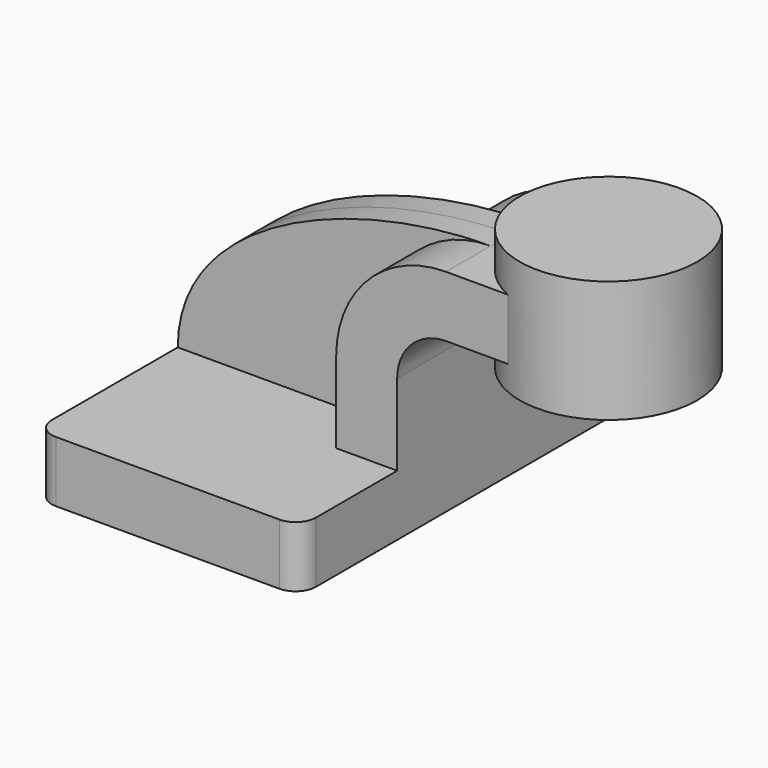
from build123d import *

# Parameters (mm, degrees)
F1_DEPTH = 63.5
F2_DEPTH = 25.4
F3_DEPTH = 7.9375
F5_R     = 6.35


with BuildPart() as f1:
    # F0 (on Front) → F1 (new body, symmetric)
    with BuildSketch(Plane.XZ):
        Polygon((41.275, -9.525), (41.275, 9.525), (22.225, 9.525), (-41.275, 9.525), (-41.275, -9.525), align=None)
    extrude(amount=F1_DEPTH, both=True)

    # F0 (on Front) → F2 (join, symmetric)
    with BuildSketch(Plane.XZ):
        with BuildLine():
            Line((22.225, 9.525), (41.275, 9.525))
            Line((41.275, 9.525), (41.275, 34.925))
            ThreePointArc((41.275, 34.925), (45.738693, 45.701307), (56.515, 50.165))
            Line((56.515, 50.165), (76.625528, 50.165))
            Line((76.625528, 50.165), (76.625528, 69.215))
            Line((76.625528, 69.215), (56.515, 69.215))
            ThreePointArc((56.515, 69.215), (32.268308, 59.171692), (22.225, 34.925))
            Line((22.225, 34.925), (22.225, 9.525))
        make_face()
    extrude(amount=F2_DEPTH, both=True)

    # F0 (on Front) → F3 (join, symmetric)
    with BuildSketch(Plane.XZ):
        with BuildLine():
            Line((-41.275, 9.525), (22.225, 9.525))
            Line((22.225, 9.525), (22.225, 34.925))
            ThreePointArc((22.225, 34.925), (32.268308, 59.171692), (56.515, 69.215))
            add(Edge.make_bspline(
                [(-41.275, 9.525), (-41.123904, 48.20979), (14.377582, 69.315985), (56.515, 69.215)],
                knots=[0, 0, 0, 0, 114.567797, 114.567797, 114.567797, 114.567797], degree=3))
        make_face()
    extrude(amount=F3_DEPTH, both=True)

    # F0 (on Front) → F4 (revolve)
    with BuildSketch(Plane.XZ):
        Polygon((86.995, 69.215), (86.995, 50.165), (86.995, 42.44888), (114.725528, 42.44888), (114.725528, 80.54888), (86.995, 80.54888), align=None)
    revolve(axis=Axis((86.995, 0, 61.49888), (0, 0, -1)))

    # F5
    f5_edges = [f1.edges().sort_by_distance(p)[0] for p in [
        (-41.275, 63.5, 0),
        (-41.275, -63.5, 0),
        (41.275, 63.5, 0),
        (41.275, -63.5, 0),
    ]]
    fillet(f5_edges, radius=F5_R)


solid = f1.part
